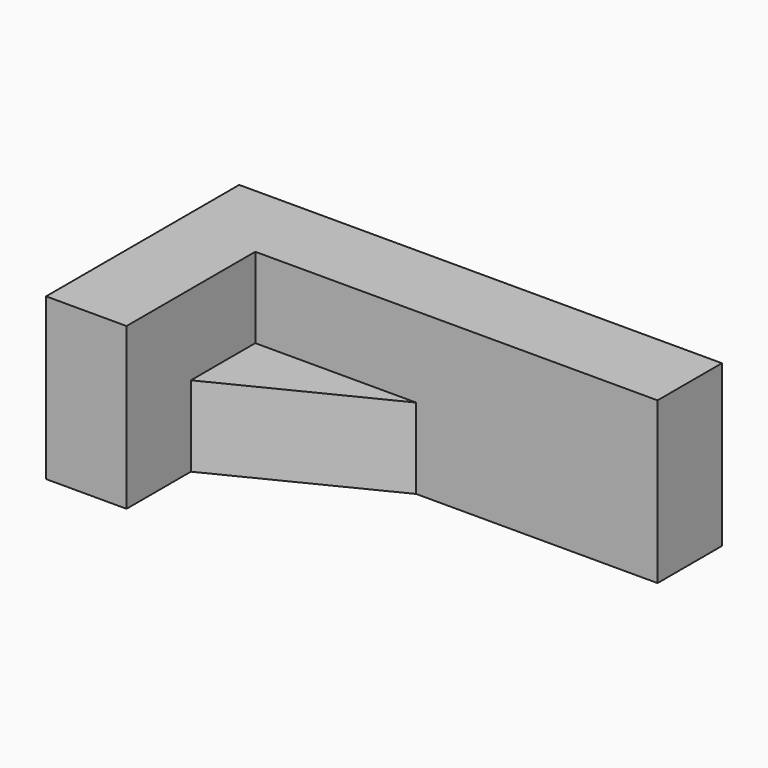
from build123d import *

# Parameters (mm, degrees)
F0_W     = 25.4
F0_H     = 50.8
F1_DEPTH = 76.2
F2_W     = 127
F2_H     = 50.8
F2_W_2   = 25.4
F3_DEPTH = 25.4
F5_DEPTH = 25.4


with BuildPart() as f1:
    # F0 (on Front) → F1 (new body)
    with BuildSketch(Plane.XZ):
        with Locations((12.7, 25.4)):
            Rectangle(F0_W, F0_H)
    extrude(amount=F1_DEPTH)

    # F2 (on face) → F3 (join)
    with BuildSketch(Plane(origin=(0, 0, 0), x_dir=(-1, 0, 0), z_dir=(0, 1, 0))):
        with Locations((-88.9, 25.4)):
            Rectangle(F2_W, F2_H)
        with Locations((-12.7, 25.4)):
            Rectangle(F2_W_2, F2_H)
    extrude(amount=-F3_DEPTH)

    # F4 (on Top) → F5 (join)
    with BuildSketch(Plane.XY):
        Polygon((76.2, -25.4), (25.4, -25.4), (25.4, -50.8), align=None)
    extrude(amount=F5_DEPTH)


solid = f1.part
